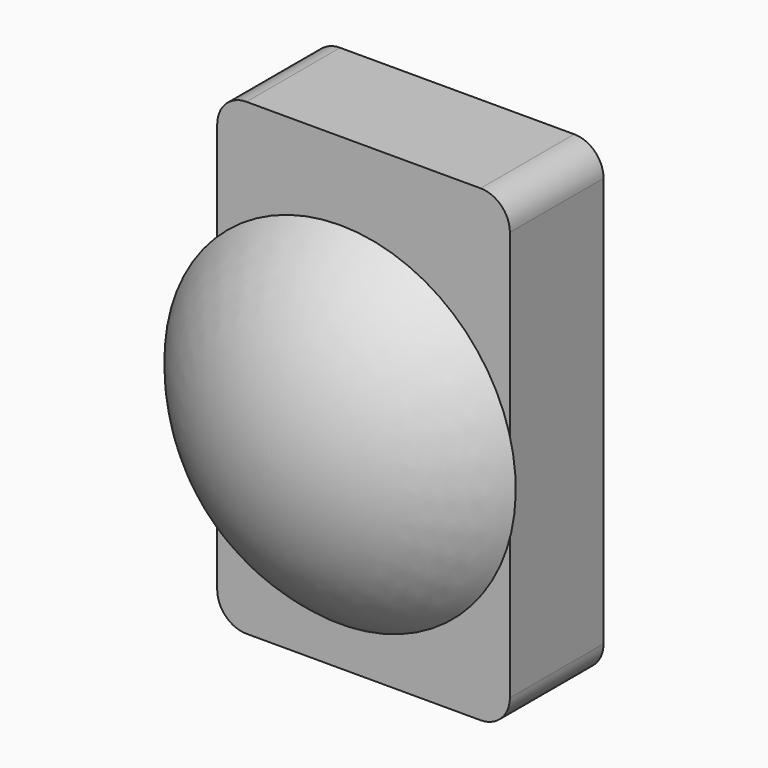
from build123d import *

# Parameters (mm, degrees)
F0_W     = 127
F0_H     = 203.2
F1_DEPTH = 50.8
F4_R     = 12.7


with BuildPart() as f1:
    # F0 (on Front) → F1 (new body)
    with BuildSketch(Plane.XZ):
        Rectangle(F0_W, F0_H)
    extrude(amount=F1_DEPTH)

    # F4
    f4_edges = [f1.edges().sort_by_distance(p)[0] for p in [
        (63.5, -25.4, 101.6),
        (-63.5, -25.4, 101.6),
        (63.5, -25.4, -101.6),
        (-63.5, -25.4, -101.6),
    ]]
    fillet(f4_edges, radius=F4_R)


with BuildPart() as f3:
    # F2 (on Right) → F3 (revolve)
    with BuildSketch(Plane.YZ):
        with BuildLine():
            Line((-50.8, 0), (-50.8, 12.7))
            Line((-50.8, 12.7), (-63.5, 12.7))
            Line((-63.5, 12.7), (-63.5, 76.2))
            ThreePointArc((-63.5, 76.2), (-91.54419, 42.597095), (-101.6, 0))
            Line((-101.6, 0), (-50.8, 0))
        make_face()
    revolve(axis=Axis((0, -76.2, 0), (0, -1, 0)))


solid = Compound([f1.part, f3.part])
